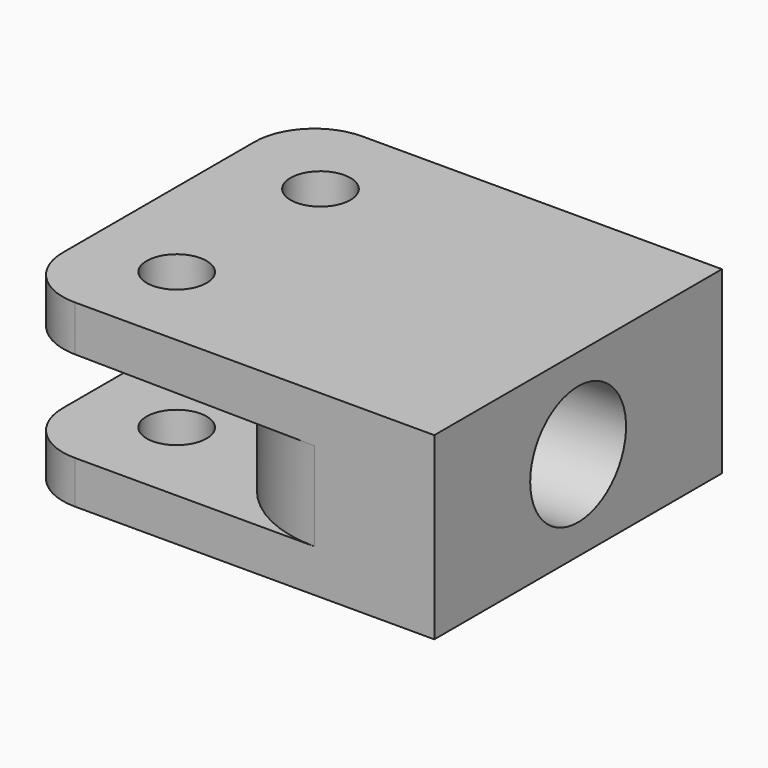
from build123d import *

# Parameters (mm, degrees)
F1_DEPTH = 38.1
F2_R     = 3.175
F3_DEPTH = 177.8
F4_R     = 6.35
F6_DEPTH = 12.7
F7_R     = 12.7


with BuildPart() as f1:
    # F0 (on Front) → F1 (new body)
    with BuildSketch(Plane.XZ):
        Polygon((-44.45, 13.515173), (-44.45, 8.739973), (-25.4, 8.530632), (-25.4, -0.994368), (-44.45, -0.994368), (-44.45, -5.534827), (0, -5.534827), (0, 13.515173), align=None)
    extrude(amount=-F1_DEPTH)

    # F2 (on face) → F3 (cut)
    with BuildSketch(Plane.XY.offset(13.515173)):
        with Locations((-34.925, 28.575)):
            Circle(F2_R)
        with Locations((-34.925, 9.525)):
            Circle(F2_R)
    extrude(amount=-F3_DEPTH, mode=Mode.SUBTRACT)

    # F4
    f4_edges = [f1.edges().sort_by_distance(p)[0] for p in [
        (-44.45, 38.1, 11.127573),
        (-44.45, 38.1, -3.264598),
        (-44.45, 0, 11.127573),
        (-44.45, 0, -3.264598),
    ]]
    fillet(f4_edges, radius=F4_R)

    # F5 (on face) → F6 (cut)
    with BuildSketch(Plane.YZ):
        with BuildLine():
            ThreePointArc((25.4, 3.990173), (19.05, 10.340173), (12.7, 3.990173))
            Line((12.7, 3.990173), (25.4, 3.990173))
        make_face()
        with BuildLine():
            Line((25.4, 3.990173), (12.7, 3.990173))
            ThreePointArc((12.7, 3.990173), (19.05, -2.359827), (25.4, 3.990173))
        make_face()
    extrude(amount=-F6_DEPTH, mode=Mode.SUBTRACT)

    # F7
    f7_edges = [f1.edges().sort_by_distance(p)[0] for p in [
        (-25.4, 0, 3.768132),
        (-25.4, 38.1, 3.768132),
    ]]
    fillet(f7_edges, radius=F7_R)


solid = f1.part
